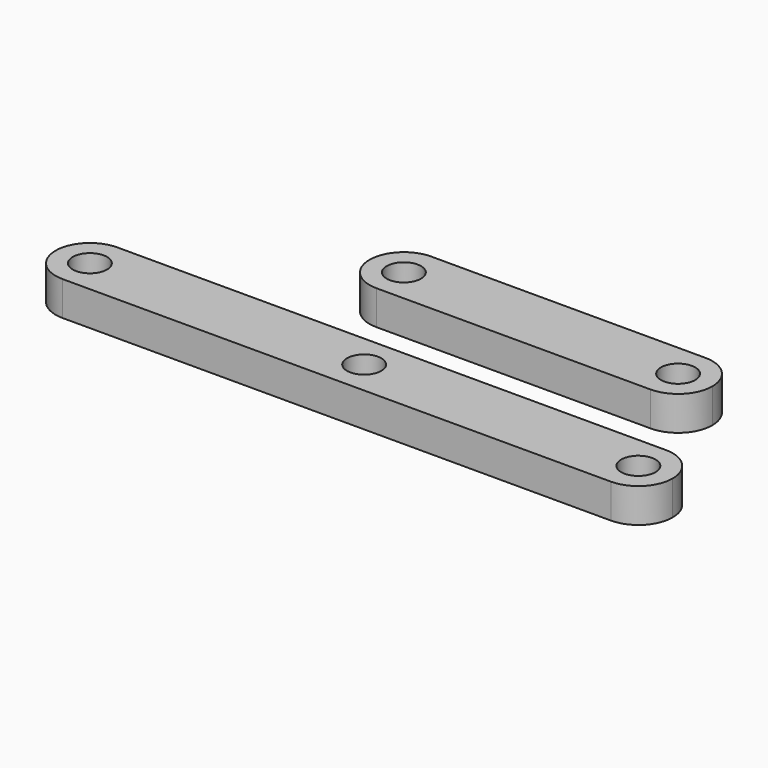
from build123d import *

# Parameters (mm, degrees)
F0_R     = 3.175
F1_DEPTH = 6.35


with BuildPart() as f1:
    # F0 (on Top) → F1 (new body)
    with BuildSketch(Plane.XY):
        with BuildLine():
            ThreePointArc((-12.333258, 0), (-7.84313, 1.859872), (-5.983258, 6.35))
            ThreePointArc((-5.983258, 6.35), (-7.84313, 10.840128), (-12.333258, 12.7))
            ThreePointArc((-12.333258, 12.7), (-18.683258, 6.35), (-12.333258, 0))
        make_face()
        with Locations((-12.333258, 6.35)):
            Circle(F0_R, mode=Mode.SUBTRACT)
        with BuildLine():
            ThreePointArc((-12.333258, 12.7), (-7.84313, 10.840128), (-5.983258, 6.35))
            ThreePointArc((-5.983258, 6.35), (-7.84313, 1.859872), (-12.333258, 0))
            Line((-12.333258, 0), (38.466742, 0))
            ThreePointArc((38.466742, 0), (32.116742, 6.35), (38.466742, 12.7))
            Line((38.466742, 12.7), (-12.333258, 12.7))
        make_face()
        with BuildLine():
            ThreePointArc((44.816742, 6.35), (42.95687, 10.840128), (38.466742, 12.7))
            ThreePointArc((38.466742, 12.7), (32.116742, 6.35), (38.466742, 0))
            ThreePointArc((38.466742, 0), (42.95687, 1.859872), (44.816742, 6.35))
        make_face()
        with Locations((38.466742, 6.35)):
            Circle(F0_R, mode=Mode.SUBTRACT)
        with BuildLine():
            ThreePointArc((-49.584795, -13.427065), (-45.094667, -15.286937), (-43.234795, -19.777065))
            ThreePointArc((-43.234795, -19.777065), (-45.094667, -24.267193), (-49.584795, -26.127065))
            Line((-49.584795, -26.127065), (1.215205, -26.127065))
            ThreePointArc((1.215205, -26.127065), (-5.134795, -19.777065), (1.215205, -13.427065))
            Line((1.215205, -13.427065), (-49.584795, -13.427065))
        make_face()
        with BuildLine():
            Line((52.015205, -13.427065), (1.215205, -13.427065))
            ThreePointArc((1.215205, -13.427065), (5.705333, -15.286937), (7.565205, -19.777065))
            ThreePointArc((7.565205, -19.777065), (5.705333, -24.267193), (1.215205, -26.127065))
            Line((1.215205, -26.127065), (52.015205, -26.127065))
            ThreePointArc((52.015205, -26.127065), (45.665205, -19.777065), (52.015205, -13.427065))
        make_face()
        with BuildLine():
            ThreePointArc((58.365205, -19.777065), (56.505333, -15.286937), (52.015205, -13.427065))
            ThreePointArc((52.015205, -13.427065), (45.665205, -19.777065), (52.015205, -26.127065))
            ThreePointArc((52.015205, -26.127065), (56.505333, -24.267193), (58.365205, -19.777065))
        make_face()
        with Locations((52.015205, -19.777065)):
            Circle(F0_R, mode=Mode.SUBTRACT)
        with BuildLine():
            ThreePointArc((7.565205, -19.777065), (5.705333, -15.286937), (1.215205, -13.427065))
            ThreePointArc((1.215205, -13.427065), (-5.134795, -19.777065), (1.215205, -26.127065))
            ThreePointArc((1.215205, -26.127065), (5.705333, -24.267193), (7.565205, -19.777065))
        make_face()
        with Locations((1.215205, -19.777065)):
            Circle(F0_R, mode=Mode.SUBTRACT)
        with BuildLine():
            ThreePointArc((-49.584795, -26.127065), (-45.094667, -24.267193), (-43.234795, -19.777065))
            ThreePointArc((-43.234795, -19.777065), (-45.094667, -15.286937), (-49.584795, -13.427065))
            ThreePointArc((-49.584795, -13.427065), (-55.934795, -19.777065), (-49.584795, -26.127065))
        make_face()
        with Locations((-49.584795, -19.777065)):
            Circle(F0_R, mode=Mode.SUBTRACT)
    extrude(amount=F1_DEPTH)


solid = f1.part
